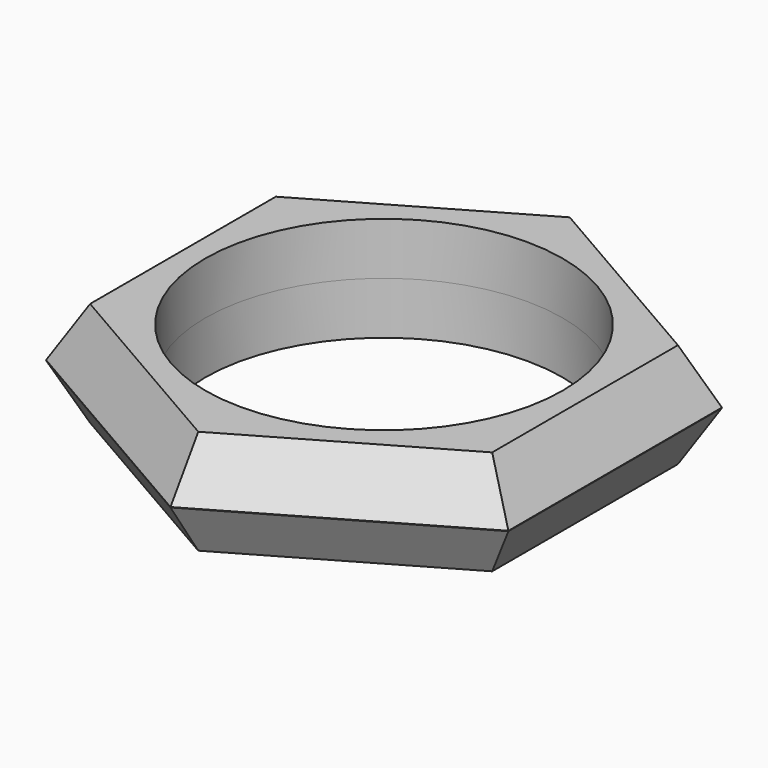
from build123d import *

# Parameters (mm, degrees)
F0_R          = 8.6741
F1_DEPTH      = 2.54
F1_DEPTH_BACK = 2.54
F2_SIZE2      = 2.5296602045
F2_SIZE       = 1.4605
F3_SIZE2      = 2.5296602045
F3_SIZE       = 1.4605


with BuildPart() as f1:
    # F0 (on Top) → F1 (new body, two sides)
    with BuildSketch(Plane.XY) as f1_sk:
        Polygon((11.2141, -6.4744636537), (11.2141, 6.4744636537), (0, 12.9489273074), (-11.2141, 6.4744636537), (-11.2141, -6.4744636537), (0, -12.9489273074), align=None)
        Circle(F0_R, mode=Mode.SUBTRACT)
    extrude(amount=F1_DEPTH)
    extrude(f1_sk.sketch, amount=-F1_DEPTH_BACK)

    # F2
    f2_edges = [f1.edges().sort_by_distance(p)[0] for p in [
        (-5.60705, 9.711695, 2.54),
        (-11.2141, 0, 2.54),
        (-5.60705, -9.711695, 2.54),
        (5.60705, -9.711695, 2.54),
        (11.2141, 0, 2.54),
        (5.60705, 9.711695, 2.54),
    ]]
    f2_side = f1.faces().sort_by_distance((10.871504, 0, 2.54))[0]
    chamfer(f2_edges, length=F2_SIZE, length2=F2_SIZE2, reference=f2_side)

    # F3
    f3_edges = [f1.edges().sort_by_distance(p)[0] for p in [
        (-5.60705, 9.711695, -2.54),
        (-11.2141, 0, -2.54),
        (-5.60705, -9.711695, -2.54),
        (5.60705, -9.711695, -2.54),
        (11.2141, 0, -2.54),
        (5.60705, 9.711695, -2.54),
    ]]
    f3_side = f1.faces().sort_by_distance((10.871504, 0, -2.54))[0]
    chamfer(f3_edges, length=F3_SIZE, length2=F3_SIZE2, reference=f3_side)


solid = f1.part
